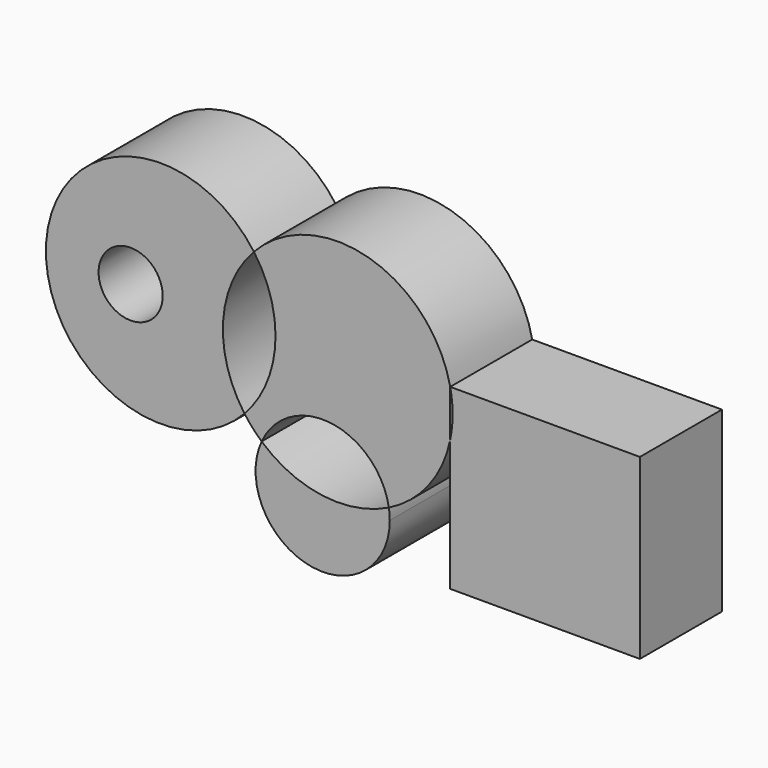
from build123d import *

# Parameters (mm, degrees)
F1_DEPTH = 25
F2_R     = 7.8164950373
F3_DEPTH = 25


with BuildPart() as f1:
    # F0 (on Front) → F1 (new body)
    with BuildSketch(Plane.XZ):
        with BuildLine():
            ThreePointArc((-35.4686552222, 8.5854582539), (-40.6799664032, 26.7469051904), (-33.1728361824, 44.0858473409))
            ThreePointArc((-33.1728361824, 44.0858473409), (-83.8399010161, 29.5380689547), (-35.4686552222, 8.5854582539))
        make_face()
    extrude(amount=F1_DEPTH)

    # F2 (on face) → F3 (cut)
    with BuildSketch(Plane.XZ.offset(25)):
        with Locations((-63.233114779, 27.3558422923)):
            Circle(F2_R)
    extrude(amount=-F3_DEPTH, mode=Mode.SUBTRACT)


with BuildPart() as f1b:
    # F0 (on Front) → F1, piece 2 (new body)
    with BuildSketch(Plane.XZ):
        with BuildLine():
            ThreePointArc((-33.1728361824, 44.0858473409), (-29.250647267, 36.3230087916), (-27.8998025967, 27.7311261743))
            ThreePointArc((-27.8998025967, 27.7311261743), (-29.8606789966, 17.4373886341), (-35.4686552222, 8.5854582539))
            ThreePointArc((-35.4686552222, 8.5854582539), (-33.5068212225, 6.1555939403), (-31.2866895909, 3.9592222133))
            ThreePointArc((-31.2866895909, 3.9592222133), (-14.2566992524, 13.3878151192), (-0.2661960897, -0.1467612084))
            ThreePointArc((-0.2661960897, -0.1467612084), (9.4452785514, 7.8233094528), (14.6962815069, 19.2365357281))
            Line((14.6962815069, 19.2365357281), (14.6962815069, 30.6419162451))
            ThreePointArc((14.6962815069, 30.6419162451), (-5.1540097886, 51.9065243125), (-33.1728361824, 44.0858473409))
        make_face()
    extrude(amount=F1_DEPTH)


with BuildPart() as f1c:
    # F0 (on Front) → F1, piece 3 (new body)
    with BuildSketch(Plane.XZ):
        with BuildLine():
            ThreePointArc((-0.2661960897, -0.1467612084), (-16.4032441004, -2.8292207693), (-31.2866895909, 3.9592222133))
            ThreePointArc((-31.2866895909, 3.9592222133), (-19.8766677907, -18.8146902859), (-0.0447628813, -2.8292207693))
            ThreePointArc((-0.0447628813, -2.8292207693), (-0.10021517, -1.4834289985), (-0.2661960897, -0.1467612084))
        make_face()
    extrude(amount=F1_DEPTH)


with BuildPart() as f1d:
    # F0 (on Front) → F1, piece 4 (new body)
    with BuildSketch(Plane.XZ):
        with BuildLine():
            Line((60.9516613185, 30.6419162451), (14.6962815069, 30.6419162451))
            ThreePointArc((14.6962815069, 30.6419162451), (15.1358822884, 27.8056188964), (15.2829305244, 24.9392259866))
            ThreePointArc((15.2829305244, 24.9392259866), (15.1358822884, 22.0728330768), (14.6962815069, 19.2365357281))
            Line((14.6962815069, 19.2365357281), (14.6962815069, -12.728318572))
            Line((14.6962815069, -12.728318572), (60.9516613185, -12.728318572))
            Line((60.9516613185, -12.728318572), (60.9516613185, 30.6419162451))
        make_face()
    extrude(amount=F1_DEPTH)


solid = Compound([f1.part, f1b.part, f1c.part, f1d.part])
